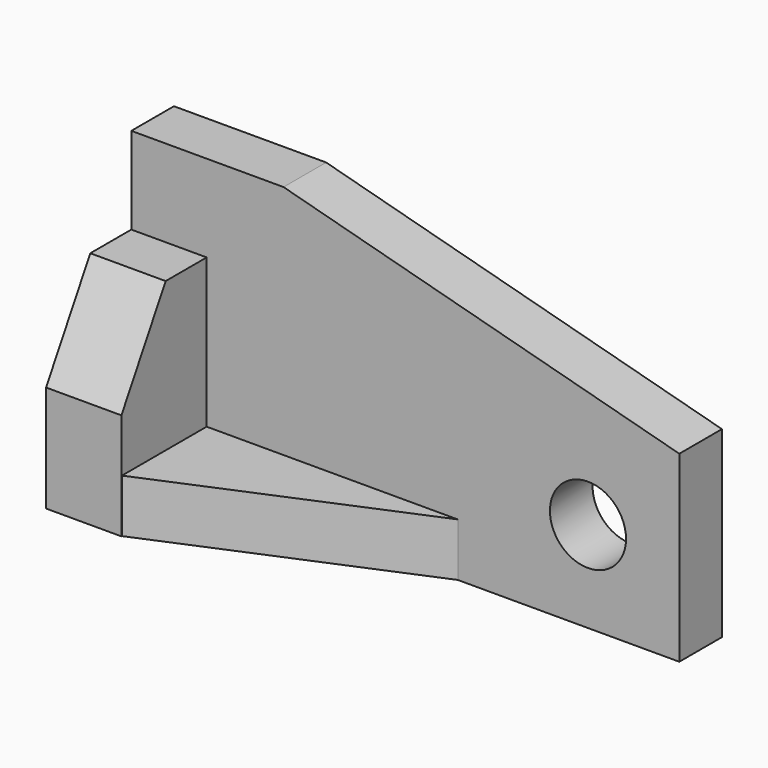
from build123d import *

# Parameters (mm, degrees)
F0_R     = 7.9375
F0_W     = 15.7160045163
F0_H     = 42.1948071688
F1_DEPTH = 11.1125
F2_DEPTH = 33.3375
F4_DEPTH = 25.4
F5_W     = 52.3748
F5_H     = 11.1125
F6_DEPTH = 22.098
F8_DEPTH = 25.4


with BuildPart() as f1:
    # F0 (on Front) → F1 (new body)
    with BuildSketch(Plane.XZ):
        Polygon((-31.6839508394, 46.4698135108), (-63.4320186035, 46.4698135108), (-63.4320186035, 28.3396206796), (-47.7160140872, 28.3396206796), (-47.7160140872, -13.8551864892), (50.8660491606, -13.8551864892), (50.8660491606, 24.3506076756), align=None)
        with Locations((31.8160491606, 5.1003992379)):
            Circle(F0_R, mode=Mode.SUBTRACT)
        with Locations((-55.5740163454, 7.2422170952)):
            Rectangle(F0_W, F0_H)
    extrude(amount=F1_DEPTH)

    # F0 (on Front) → F2 (join)
    with BuildSketch(Plane.XZ):
        with Locations((-55.5740163454, 7.2422170952)):
            Rectangle(F0_W, F0_H)
    extrude(amount=F2_DEPTH)

    # F3 (on face) → F4 (cut)
    with BuildSketch(Plane.YZ.offset(-47.7160140872)):
        Polygon((-33.3375, 28.3396206796), (-33.3375, 8.3698135108), (-21.8079264554, 28.3396206796), align=None)
    extrude(amount=-F4_DEPTH, mode=Mode.SUBTRACT)

    # F5 (on face) → F6 (join)
    with BuildSketch(Plane.XZ.offset(11.1125)):
        with Locations((-21.5286140872, -8.2989364892)):
            Rectangle(F5_W, F5_H)
    extrude(amount=F6_DEPTH)

    # F7 (on face) → F8 (cut)
    with BuildSketch(Plane.XY.offset(-2.7426864892)):
        Polygon((4.6587859128, -11.1125), (-47.7160140872, -33.2105), (4.6587859128, -33.2105), align=None)
    extrude(amount=-F8_DEPTH, mode=Mode.SUBTRACT)


solid = f1.part
